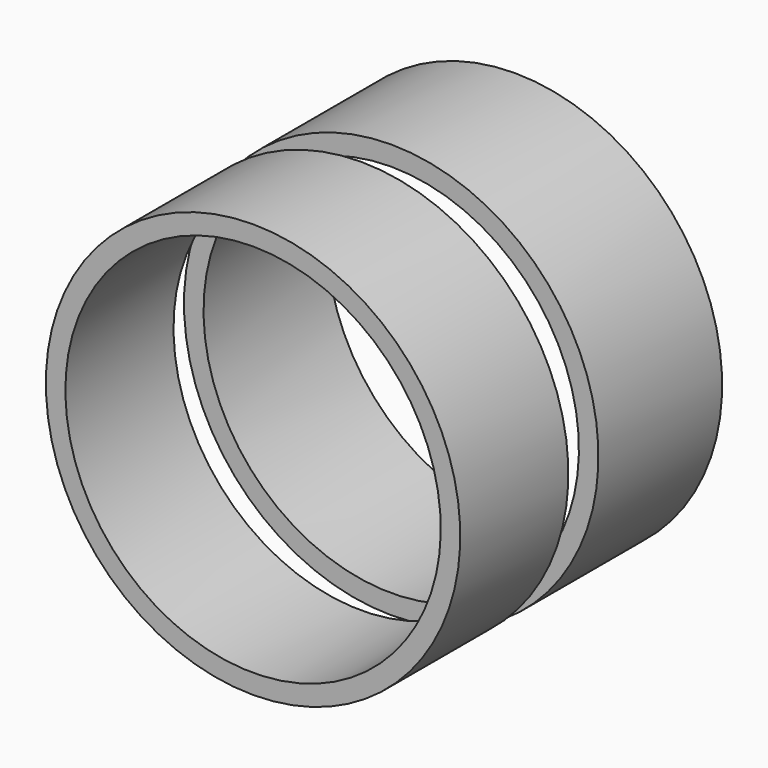
from build123d import *

# Parameters (mm, degrees)
F0_W   = 9
F0_H   = 1.3
F0_W_2 = 10.3


with BuildPart() as f1:
    # F0 (on Right) → F1 (revolve)
    with BuildSketch(Plane.YZ):
        with Locations((4.5, 13.15)):
            Rectangle(F0_W, F0_H)
        with Locations((16.65, 13.15)):
            Rectangle(F0_W_2, F0_H)
    revolve(axis=Axis((0, 10.9, 0), (0, 1, 0)))


solid = f1.part
